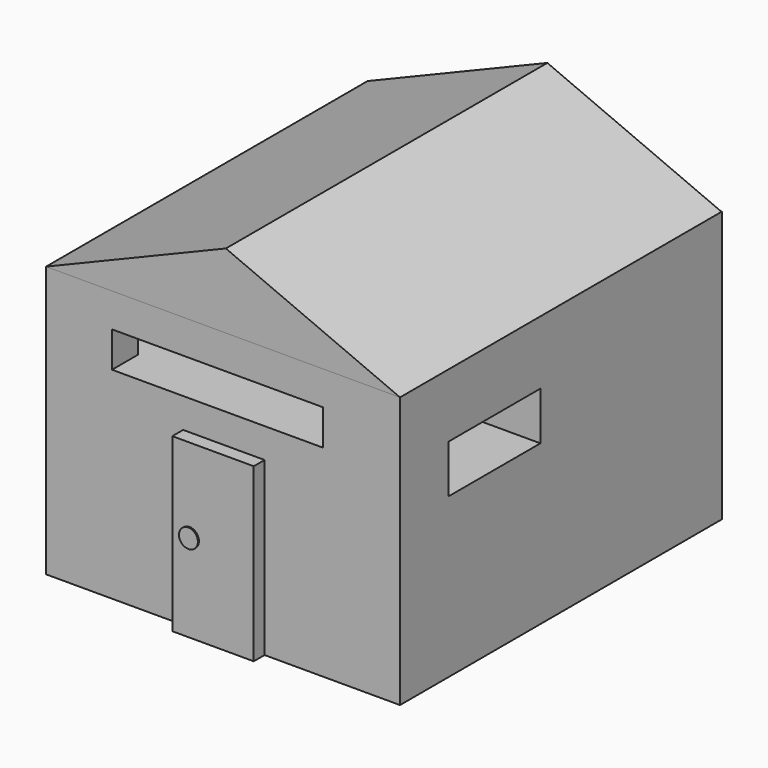
from build123d import *

# Parameters (mm, degrees)
F0_W      = 99.5517745614
F0_H      = 113.1746582687
F1_DEPTH  = 76.2
F3_DEPTH  = 113.03
F5_W      = 32.2701362893
F5_H      = 13.553455472
F6_DEPTH  = 25.4
F4_W      = 22.911792621
F4_H      = 48.3050867915
F7_DEPTH  = 3.81
F8_W      = 59.377040714
F8_H      = 10.0037418306
F9_DEPTH  = 25.4
F10_W     = 42.9192762822
F10_H     = 8.0675370991
F11_DEPTH = 25.4
F12_R     = 2.6610637676
F13_DEPTH = 0.381


with BuildPart() as f1:
    # F0 (on Top) → F1 (new body)
    with BuildSketch(Plane.XY):
        with Locations((-0.791631639, -4.7834534198)):
            Rectangle(F0_W, F0_H)
    extrude(amount=F1_DEPTH)

    # F5 (on face) → F6 (cut)
    with BuildSketch(Plane.YZ.offset(48.9842556417)):
        with Locations((-28.1556905247, 51.5321008861)):
            Rectangle(F5_W, F5_H)
    extrude(amount=-F6_DEPTH, mode=Mode.SUBTRACT)

    # F4 (on face) → F7 (join)
    with BuildSketch(Plane.XZ.offset(61.3707825541)):
        with Locations((-0.5647279322, 24.1525433958)):
            Rectangle(F4_W, F4_H)
    extrude(amount=F7_DEPTH)

    # F8 (on face) → F9 (cut)
    with BuildSketch(Plane.XZ.offset(61.3707825541)):
        with Locations((-2.3395847529, 61.6971943527)):
            Rectangle(F8_W, F8_H)
    extrude(amount=-F9_DEPTH, mode=Mode.SUBTRACT)

    # F10 (on face) → F11 (cut)
    with BuildSketch(Plane(origin=(-50.5675189197, 0, 0), x_dir=(0, -1, 0), z_dir=(-1, 0, 0))):
        with Locations((30.7373004034, 60.729091987)):
            Rectangle(F10_W, F10_H)
    extrude(amount=-F11_DEPTH, mode=Mode.SUBTRACT)

    # F12 (on face) → F13 (join)
    with BuildSketch(Plane.XZ.offset(65.1807825541)):
        with Locations((-7.1801049635, 24.7478894889)):
            Circle(F12_R)
    extrude(amount=F13_DEPTH)


with BuildPart() as f3:
    # F2 (on face) → F3 (new body)
    with BuildSketch(Plane.XZ.offset(61.3707825541)):
        Polygon((0, 76.2), (0, 97.1367135644), (-50.5675189197, 76.2), align=None)
        Polygon((48.9842556417, 76.2), (0, 97.1367135644), (0, 76.2), align=None)
    extrude(amount=-F3_DEPTH)


solid = Compound([f1.part, f3.part])
